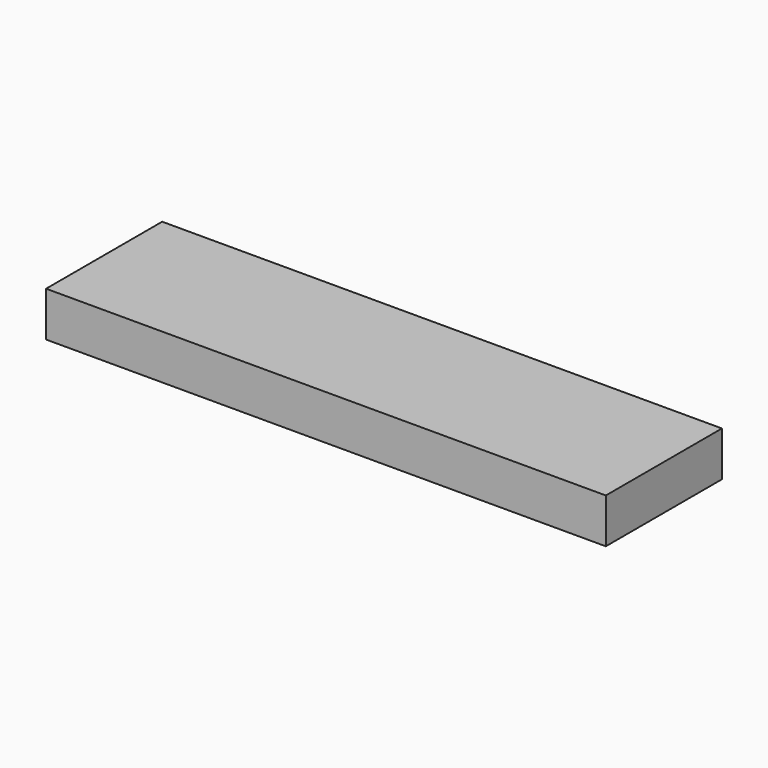
from build123d import *

# Parameters (mm, degrees)
F0_W     = 62.503295
F0_H     = 16.204555
F1_DEPTH = 5


with BuildPart() as f1:
    # F0 (on Top) → F1 (new body)
    with BuildSketch(Plane.XY):
        with Locations((-14.757722, -23.583417)):
            Rectangle(F0_W, F0_H)
        with Locations((-14.757722, -23.583417)):
            Rectangle(F0_W, F0_H)
    extrude(amount=-F1_DEPTH)


solid = f1.part
